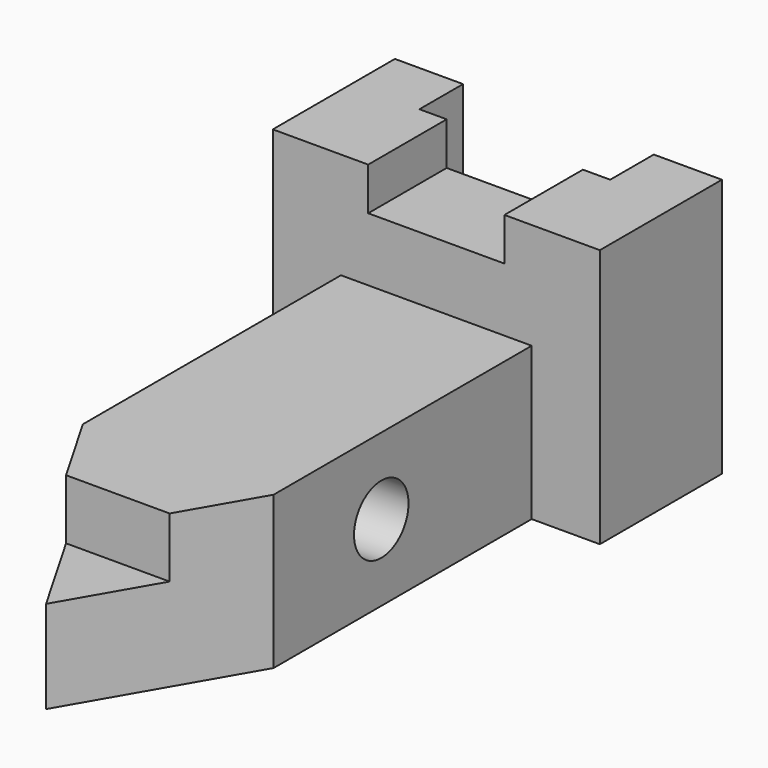
from build123d import *

# Parameters (mm, degrees)
F0_W      = 60.96
F0_H      = 48.26
F1_DEPTH  = 28.448
F2_W      = 25.4
F2_H      = 7.98411
F3_DEPTH  = 30.226
F4_W      = 35.56
F4_H      = 48.26
F5_DEPTH  = 10.16
F6_W      = 35.56
F6_H      = 28.448
F7_DEPTH  = 90.932
F8_R      = 6.35
F9_DEPTH  = 42.164
F11_DEPTH = 32.766
F13_DEPTH = 11.176


with BuildPart() as f1:
    # F0 (on Front) → F1 (new body)
    with BuildSketch(Plane.XZ):
        with Locations((-12.900013, -13.385132)):
            Rectangle(F0_W, F0_H)
    extrude(amount=F1_DEPTH)

    # F2 (on face) → F3 (cut)
    with BuildSketch(Plane.XZ.offset(28.448)):
        with Locations((-12.900013, 6.752813)):
            Rectangle(F2_W, F2_H)
    extrude(amount=-F3_DEPTH, mode=Mode.SUBTRACT)

    # F4 (on face) → F5 (cut)
    with BuildSketch(Plane(origin=(0, 0, 0), x_dir=(-1, 0, 0), z_dir=(0, 1, 0))):
        with Locations((12.900013, -13.385132)):
            Rectangle(F4_W, F4_H)
    extrude(amount=-F5_DEPTH, mode=Mode.SUBTRACT)


with BuildPart() as f7:
    # F6 (on face) → F7 (new body)
    with BuildSketch(Plane.XZ.offset(28.448)):
        with Locations((-12.900013, -23.291132)):
            Rectangle(F6_W, F6_H)
    extrude(amount=F7_DEPTH)

    # F8 (on face) → F9 (cut)
    with BuildSketch(Plane(origin=(-30.680013, 0, 0), x_dir=(0, -1, 0), z_dir=(-1, 0, 0))):
        with Locations((63.5, -23.291132)):
            Circle(F8_R)
    extrude(amount=-F9_DEPTH, mode=Mode.SUBTRACT)

    # F10 (on face) → F11 (cut)
    with BuildSketch(Plane.XY.offset(-9.067132)):
        Polygon((-30.680013, -119.38), (-12.900013, -119.38), (-30.680013, -88.584137), align=None)
        Polygon((4.879987, -88.584137), (-12.900013, -119.38), (4.879987, -119.38), align=None)
    extrude(amount=-F11_DEPTH, mode=Mode.SUBTRACT)

    # F12 (on face) → F13 (cut)
    with BuildSketch(Plane.XY.offset(-9.067132)):
        Polygon((-22.552013, -102.662246), (-12.900013, -119.38), (-3.248013, -102.662246), align=None)
    extrude(amount=-F13_DEPTH, mode=Mode.SUBTRACT)


solid = Compound([f1.part, f7.part])
